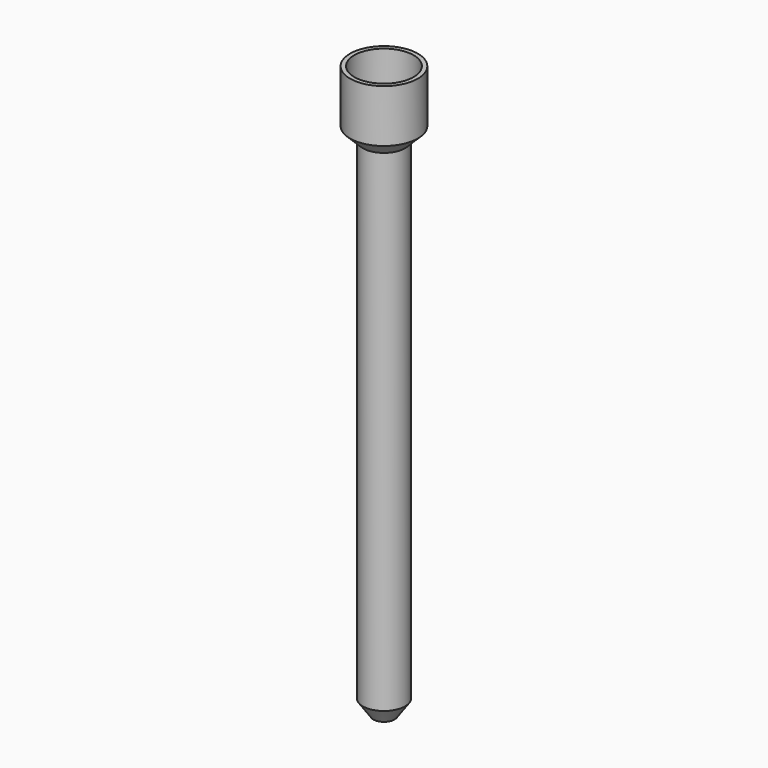
from build123d import *

# Parameters (mm, degrees)
F2_T = -1.27


with BuildPart() as f1:
    # F0 (on Front) → F1 (revolve)
    with BuildSketch(Plane.XZ):
        Polygon((-3.175, -41.3657145261), (0, -41.3657145261), (0, 111.0342854739), (0, 130.0842854739), (-10.16, 130.0842854739), (-10.16, 114.2775136591), (-6.35, 110.4675136591), (-6.35, -36.8313446047), align=None)
    revolve(axis=Axis((0, 0, 34.8342854739), (0, 0, 1)))

    # F2
    f2_openings = [f1.faces().sort_by_distance(p)[0] for p in [
        (0, 0, 130.084285),
    ]]
    offset(amount=F2_T, openings=f2_openings, kind=Kind.INTERSECTION)


solid = f1.part
